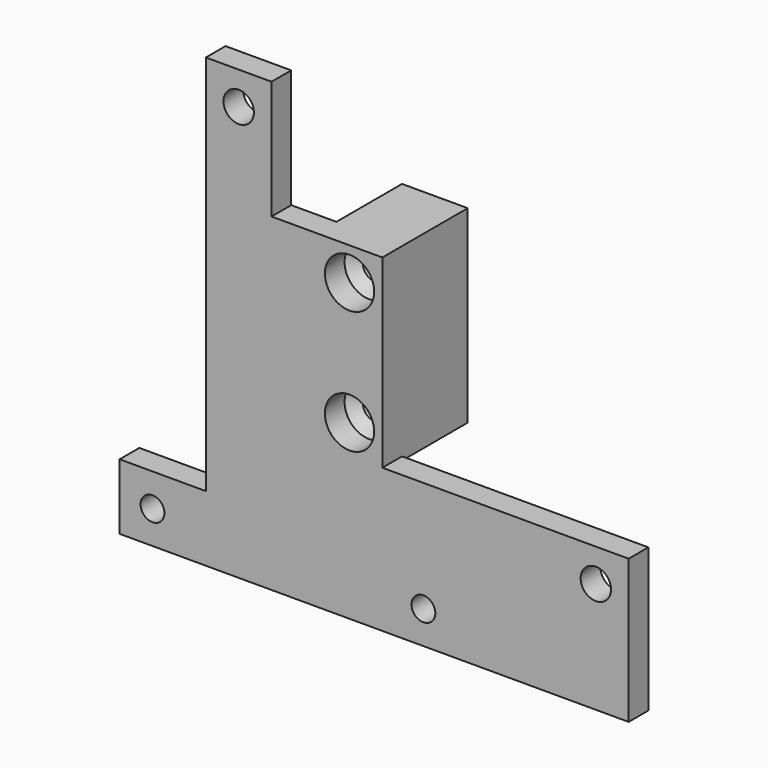
from build123d import *

# Parameters (mm, degrees)
F0_R     = 1.45
F0_R_2   = 1.85
F0_R_3   = 1.5
F1_DEPTH = 3
F2_DEPTH = 13
F3_D     = 6
F3_DEPTH = 3
F3_TIP   = 1.8025818571


with BuildPart() as f1:
    # F0 (on Front) → F1 (new body)
    with BuildSketch(Plane.XZ):
        Polygon((-10.5, -5), (51.5, -5), (51.5, 12.5), (21.5, 12.5), (21.5, 12.0468574613), (13.5, 12.0468574613), (13.5, 35.0468574613), (8, 35.0468574613), (8, 49.5), (0, 49.5), (0, 3), (-10.5, 3), align=None)
        with Locations((-6.5, -1)):
            Circle(F0_R, mode=Mode.SUBTRACT)
        with Locations((26.5, -1)):
            Circle(F0_R, mode=Mode.SUBTRACT)
        with Locations((47.5, 8.5)):
            Circle(F0_R_2, mode=Mode.SUBTRACT)
        with Locations((4, 45.5)):
            Circle(F0_R_2, mode=Mode.SUBTRACT)
        Polygon((21.5, 12.0468574613), (21.5, 12.5), (21.5, 35.0468574613), (13.5, 35.0468574613), (13.5, 12.0468574613), align=None)
        with Locations((17.5, 16.0468574613)):
            Circle(F0_R_3, mode=Mode.SUBTRACT)
        with Locations((17.5, 31.0468574613)):
            Circle(F0_R_3, mode=Mode.SUBTRACT)
    extrude(amount=-F1_DEPTH)

    # F0 (on Front) → F2 (join)
    with BuildSketch(Plane.XZ):
        Polygon((21.5, 12.0468574613), (21.5, 12.5), (21.5, 35.0468574613), (13.5, 35.0468574613), (13.5, 12.0468574613), align=None)
        with Locations((17.5, 16.0468574613)):
            Circle(F0_R_3, mode=Mode.SUBTRACT)
        with Locations((17.5, 31.0468574613)):
            Circle(F0_R_3, mode=Mode.SUBTRACT)
    extrude(amount=-F2_DEPTH)

    # F3
    with Locations(Plane.XZ):
        with Locations((17.5, 31.0468574613), (17.5, 16.0468574613)):
            Hole(F3_D / 2, depth=F3_DEPTH)
            with Locations((0, 0, -(F3_DEPTH + F3_TIP / 2))):  # 118° drill point
                Cone(0, F3_D / 2, F3_TIP, mode=Mode.SUBTRACT)


solid = f1.part
